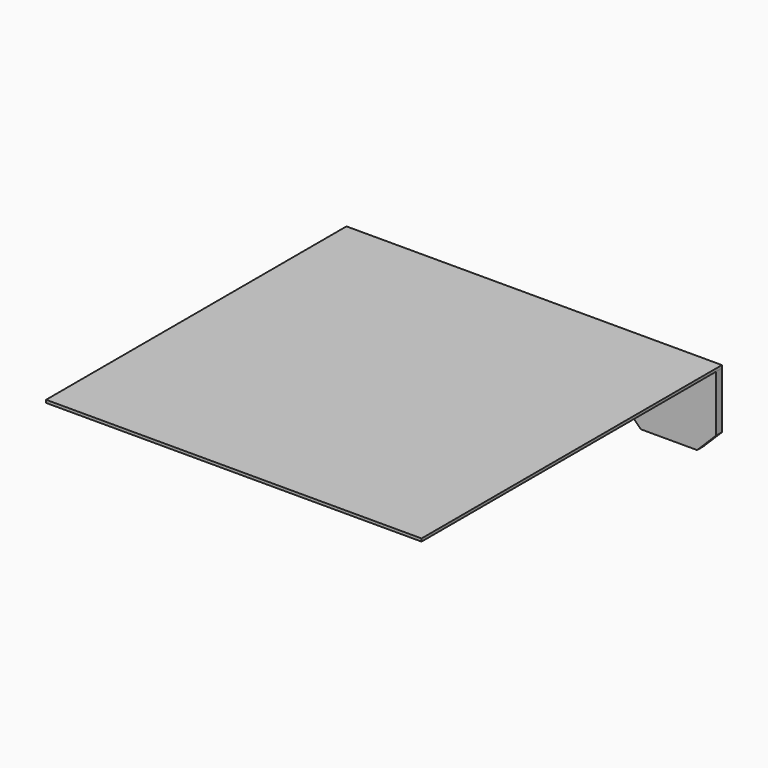
from build123d import *

# Parameters (mm, degrees)
F0_W     = 400
F0_H     = 400
F1_DEPTH = 3
F2_W     = 100
F2_H     = 8
F3_DEPTH = 80
F4_SIZE  = 20
F5_SIZE  = 20


with BuildPart() as f1:
    # F0 (on Top) → F1 (new body)
    with BuildSketch(Plane.XY):
        Rectangle(F0_W, F0_H)
    extrude(amount=F1_DEPTH)


with BuildPart() as f3:
    # F2 (on face) → F3 (new body)
    with BuildSketch(Plane(origin=(0, 0, 0), x_dir=(1, 0, 0), z_dir=(0, 0, -1))):
        with Locations((150, -196)):
            Rectangle(F2_W, F2_H)
    extrude(amount=F3_DEPTH)

    # F4
    f4_edges = [f3.edges().sort_by_distance(p)[0] for p in [
        (200, 196, -80),
    ]]
    chamfer(f4_edges, length=F4_SIZE)

    # F5
    f5_edges = [f3.edges().sort_by_distance(p)[0] for p in [
        (100, 196, -80),
    ]]
    chamfer(f5_edges, length=F5_SIZE)


solid = Compound([f1.part, f3.part])
